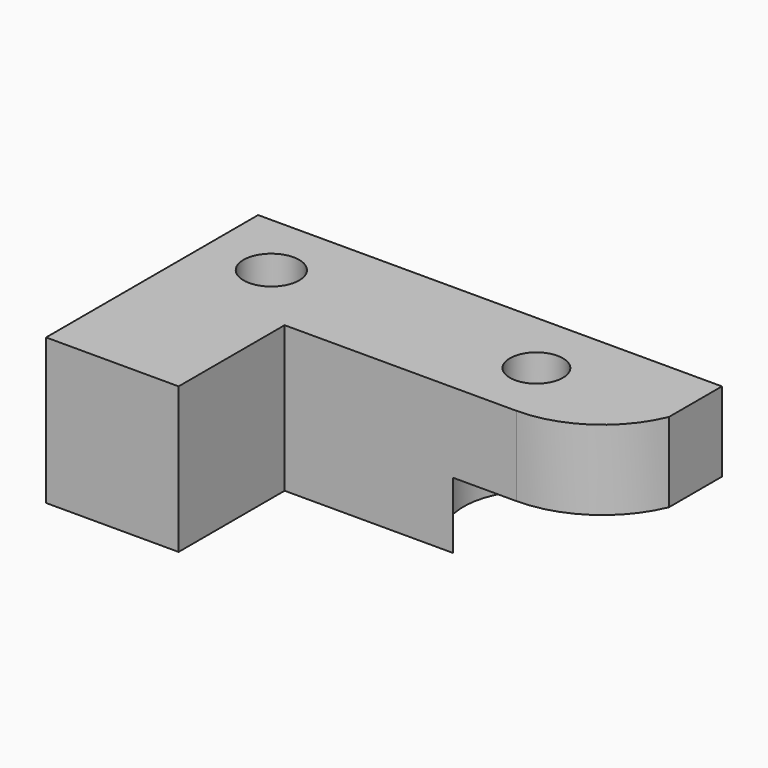
from build123d import *

# Parameters (mm, degrees)
PAD_DEPTH       = 22
SKETCH001_R     = 4
POCKET_DEPTH    = 22
POCKET001_DEPTH = 10
SKETCH002_R     = 4.2
POCKET002_DEPTH = 22


with BuildPart() as part:
    # Sketch → Pad (new body)
    with BuildSketch(Plane.XY):
        with BuildLine():
            Line((-10, 10), (60, 10))
            Line((60, 10), (60, 0))
            ThreePointArc((45, -10), (54.013878, -7.270817), (60, 0))
            Line((10, -10), (45, -10))
            Line((10, -30), (10, -10))
            Line((-10, -30), (10, -30))
            Line((-10, 10), (-10, -30))
        make_face()
    extrude(amount=PAD_DEPTH)

    # Sketch001 → Pocket (cut)
    with BuildSketch(Plane.XY):
        with Locations((40, 0)):
            Circle(SKETCH001_R)
    extrude(amount=POCKET_DEPTH, mode=Mode.SUBTRACT)

    # Sketch004 → Pocket001 (cut)
    with BuildSketch(Plane.XY):
        with BuildLine():
            ThreePointArc((40, 11), (29, 0), (40, -11))
            Line((40, -11), (45, -11))
            ThreePointArc((45, -11), (54.340905, -7.958424), (60.1, 0))
            Line((60.1, 11), (60.1, 0))
            Line((40, 11), (60.1, 11))
        make_face()
    extrude(amount=POCKET001_DEPTH, mode=Mode.SUBTRACT)

    # Sketch002 → Pocket002 (cut)
    with BuildSketch(Plane.XY.offset(22)):
        Circle(SKETCH002_R)
    extrude(amount=-POCKET002_DEPTH, mode=Mode.SUBTRACT)


solid = part.part
